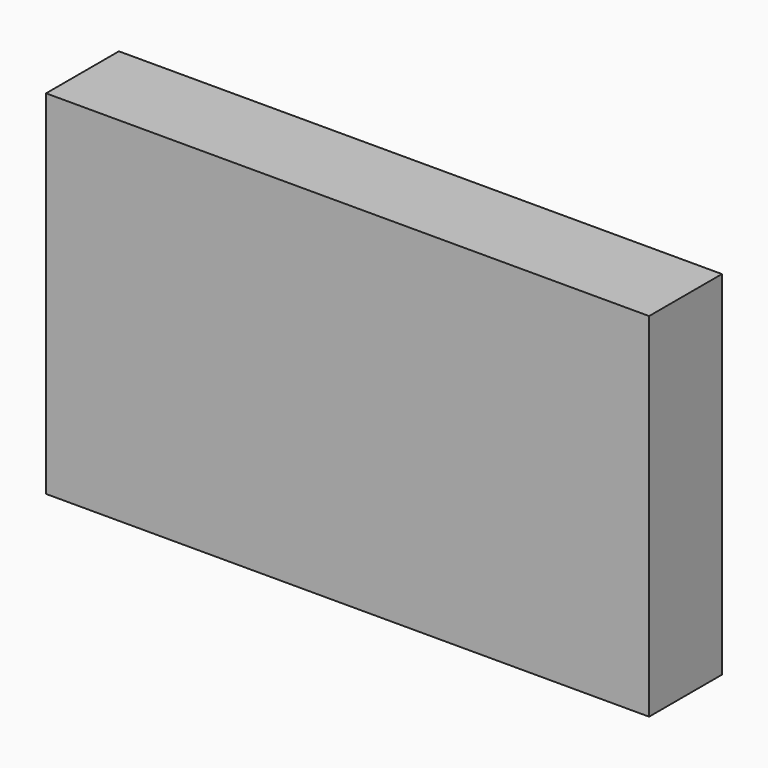
from build123d import *

# Parameters (mm, degrees)
F0_W     = 76.2
F0_H     = 98.425
F0_W_2   = 92.075
F1_DEPTH = 25.4


with BuildPart() as f1:
    # F0 (on Front) → F1 (new body)
    with BuildSketch(Plane.XZ):
        with Locations((-3.885445, 23.387491)):
            Rectangle(F0_W, F0_H)
        with Locations((80.252055, 23.387491)):
            Rectangle(F0_W_2, F0_H)
    extrude(amount=F1_DEPTH)


solid = f1.part
